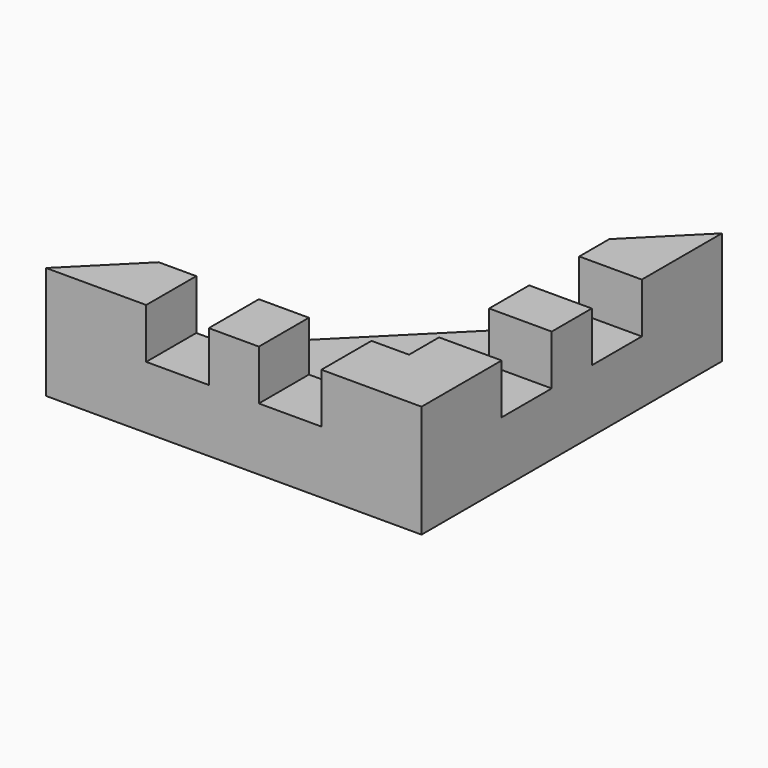
from build123d import *

# Parameters (mm, degrees)
F1_DEPTH = 3
F3_DEPTH = 6
F4_W     = 5
F4_H     = 5
F5_DEPTH = 4


with BuildPart() as f1:
    # F0 (on Top) → F1 (new body)
    with BuildSketch(Plane.XY):
        Polygon((30, 30), (0, 0), (30, 0), align=None)
    extrude(amount=F1_DEPTH)

    # F2 (on face) → F3 (join)
    with BuildSketch(Plane.XY.offset(3)):
        Polygon((5, 5), (0, 0), (25, 0), (30, 0), (30, 30), (25, 25), (25, 5), align=None)
    extrude(amount=F3_DEPTH)

    # F4 (on face) → F5 (cut)
    with BuildSketch(Plane.XY.offset(9)):
        with Locations((10.5, 2.5)):
            Rectangle(F4_W, F4_H)
        with Locations((19.5, 2.5)):
            Rectangle(F4_W, F4_H)
        with Locations((27.5, 10.5)):
            Rectangle(F4_W, F4_H)
        with Locations((27.5, 19.5)):
            Rectangle(F4_W, F4_H)
    extrude(amount=-F5_DEPTH, mode=Mode.SUBTRACT)


with BuildPart() as f6_1:
    # F6: copy of F1
    add(f1.part)


solid = Compound([f1.part, f6_1.part])
